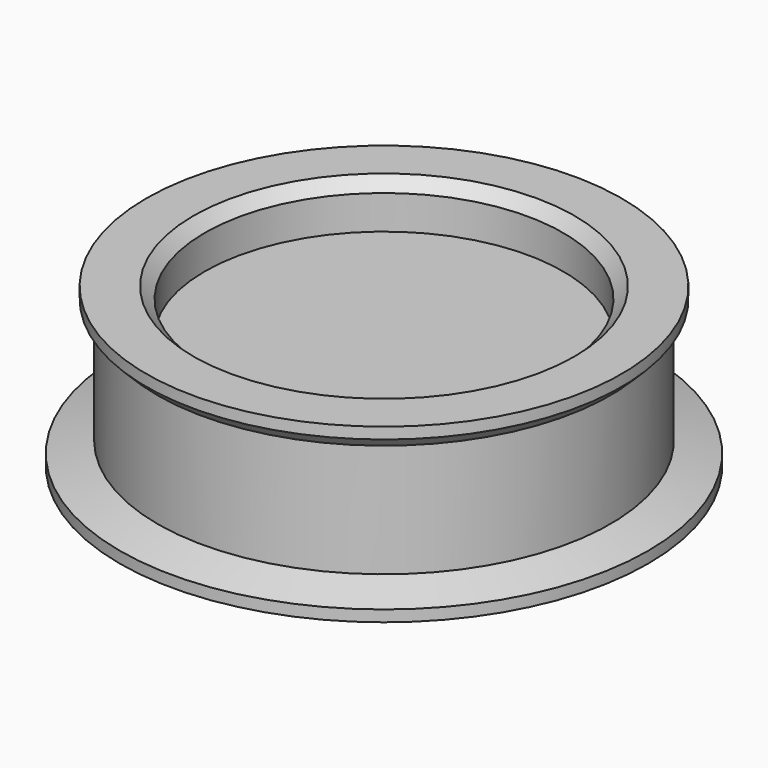
from build123d import *

# Parameters (mm, degrees)
CYLINDER_R     = 9.5
CYLINDER_DEPTH = 6
CHAMFER_SIZE   = 0.6


with BuildPart() as cylinder:
    # Cylinder → Cylinder (new body)
    with BuildSketch(Plane.XY):
        Circle(CYLINDER_R)
    extrude(amount=CYLINDER_DEPTH)


with BuildPart() as chamfer_body:
    # Sketch → Revolution (revolve)
    with BuildSketch(Plane.XZ):
        Polygon((-14, 0), (-14, 0.6), (-12, 1.2), (-12, 7.2), (-12.6, 7.8), (-12.6, 8.4), (-12, 8.4), (-9.5, 8.4), (-9.5, 1.2), (-7.5, 1.2), (-7.5, 0), align=None)
    revolve(axis=Axis((0, 0, 0), (0, 0, 1)))

    # Chamfer
    chamfer_edges = [chamfer_body.edges().sort_by_distance(p)[0] for p in [
        (9.5, 0, 8.4),
    ]]
    chamfer(chamfer_edges, length=CHAMFER_SIZE)


solid = Compound([cylinder.part, chamfer_body.part])
